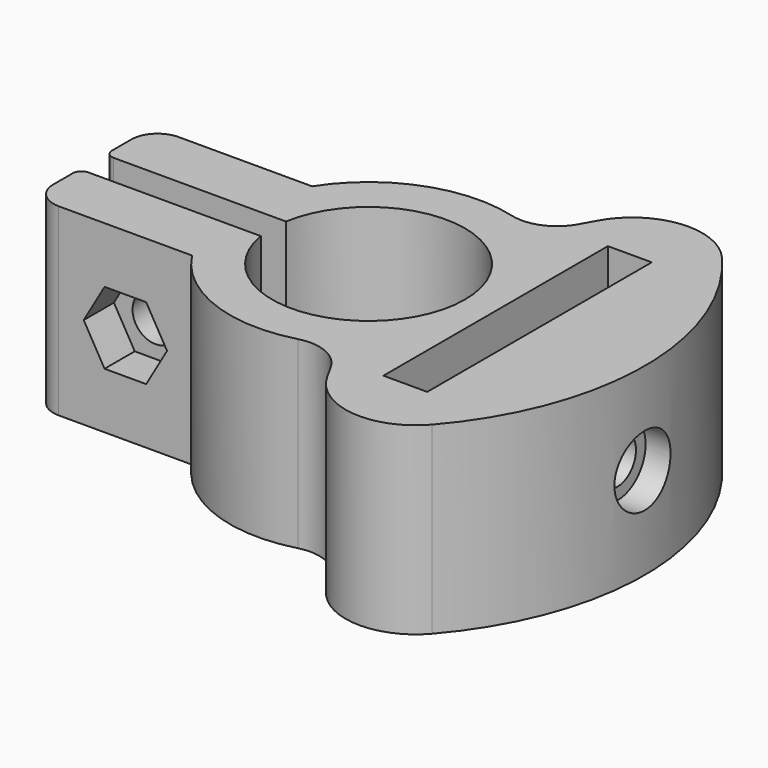
from build123d import *

# Parameters (mm, degrees)
F1_DEPTH  = 21
F3_DEPTH  = 4.3
F4_R      = 2.625
F5_DEPTH  = 27.677358
F6_R      = 4.125
F7_DEPTH  = 4.15
F9_R      = 4
F10_DEPTH = 3.1
F11_R     = 2.63
F12_DEPTH = 15.4
F13_R     = 2.194009
F13_R_2   = 2.575
F13_R_3   = 1.491787
F14_DEPTH = 18.4


with BuildPart() as f1:
    # F0 (on Top) → F1 (new body)
    with BuildSketch(Plane.XY):
        with BuildLine():
            ThreePointArc((-10.851728, 1.8), (11, 0), (-10.851728, -1.8))
            Line((-10.851728, -1.8), (-15.697133, -1.8))
            ThreePointArc((-15.697133, -1.8), (-14.879747, -5.313485), (-13.286742, -8.55))
            ThreePointArc((-13.286742, -8.55), (-5.672485, -14.746624), (4.131669, -15.250223))
            ThreePointArc((4.131669, -15.250223), (7.383686, -15.469855), (9.809368, -17.646991))
            Line((9.809368, -17.646991), (10.735537, -19.313162))
            ThreePointArc((10.735537, -19.313162), (16.894368, -23.382819), (23.762893, -20.677885))
            ThreePointArc((23.762893, -20.677885), (31.5, 0), (23.762893, 20.677885))
            ThreePointArc((23.762893, 20.677885), (16.894368, 23.382819), (10.735537, 19.313162))
            Line((10.735537, 19.313162), (9.809368, 17.646991))
            ThreePointArc((9.809368, 17.646991), (7.383686, 15.469855), (4.131669, 15.250223))
            ThreePointArc((4.131669, 15.250223), (-5.672485, 14.746624), (-13.286742, 8.55))
            ThreePointArc((-13.286742, 8.55), (-14.879747, 5.313485), (-15.697133, 1.8))
            Line((-15.697133, 1.8), (-10.851728, 1.8))
        make_face()
        Polygon((14.5, -16), (14.5, 0), (14.5, 16), (19.5, 16), (19.5, -16), align=None, mode=Mode.SUBTRACT)
        with BuildLine():
            ThreePointArc((-13.286742, -8.55), (-14.879747, -5.313485), (-15.697133, -1.8))
            Line((-15.697133, -1.8), (-30.5, -1.8))
            ThreePointArc((-30.5, -1.8), (-31.207107, -2.092893), (-31.5, -2.8))
            Line((-31.5, -2.8), (-31.5, -5.55))
            ThreePointArc((-31.5, -5.55), (-30.62132, -7.67132), (-28.5, -8.55))
            Line((-28.5, -8.55), (-13.286742, -8.55))
        make_face()
        with BuildLine():
            Line((-30.5, 1.8), (-15.697133, 1.8))
            ThreePointArc((-15.697133, 1.8), (-14.879747, 5.313485), (-13.286742, 8.55))
            Line((-13.286742, 8.55), (-28.5, 8.55))
            ThreePointArc((-28.5, 8.55), (-30.62132, 7.67132), (-31.5, 5.55))
            Line((-31.5, 5.55), (-31.5, 2.8))
            ThreePointArc((-31.5, 2.8), (-31.207107, 2.092893), (-30.5, 1.8))
        make_face()
    extrude(amount=F1_DEPTH)

    # F2 (on face) → F3 (cut)
    with BuildSketch(Plane.XZ.offset(8.55)):
        Polygon((-23.268371, 14.613621), (-25.643371, 10.5), (-23.268371, 6.386379), (-18.518371, 6.386379), (-16.143371, 10.5), (-18.518371, 14.613621), align=None)
    extrude(amount=-F3_DEPTH, mode=Mode.SUBTRACT)

    # F4 (on face) → F5 (cut, through all)
    with BuildSketch(Plane.XZ.offset(4.25)):
        with Locations((-20.893371, 10.5)):
            Circle(F4_R)
    extrude(amount=-F5_DEPTH, mode=Mode.SUBTRACT)

    # F6 (on face) → F7 (cut)
    with BuildSketch(Plane(origin=(0, 8.55, 0), x_dir=(-1, 0, 0), z_dir=(0, 1, 0))):
        with Locations((20.893371, 10.5)):
            Circle(F6_R)
    extrude(amount=-F7_DEPTH, mode=Mode.SUBTRACT)

    # F9 (on offset) → F10 (cut)
    with BuildSketch(Plane.YZ.offset(31.5)):
        with Locations((0, 10.5)):
            Circle(F9_R)
    extrude(amount=-F10_DEPTH, mode=Mode.SUBTRACT)

    # F11 (on face) → F12 (cut)
    with BuildSketch(Plane.YZ.offset(28.4)):
        with Locations((0, 10.5)):
            Circle(F11_R)
    extrude(amount=-F12_DEPTH, mode=Mode.SUBTRACT)

    # F13 (on face) → F14 (cut)
    with BuildSketch(Plane(origin=(0, 0, 0), x_dir=(1, 0, 0), z_dir=(0, 0, -1))):
        with Locations((10.025991, 11.786622)):
            Circle(F13_R)
        with Locations((10.025991, -11.786622)):
            Circle(F13_R)
        with Locations((24.775, 7.968689)):
            Circle(F13_R_2)
        with Locations((24.775, -7.968689)):
            Circle(F13_R_2)
        with Locations((16.947184, 19.69141)):
            Circle(F13_R_3)
        with Locations((16.947184, -19.69141)):
            Circle(F13_R_3)
    extrude(amount=-F14_DEPTH, mode=Mode.SUBTRACT)


solid = f1.part
